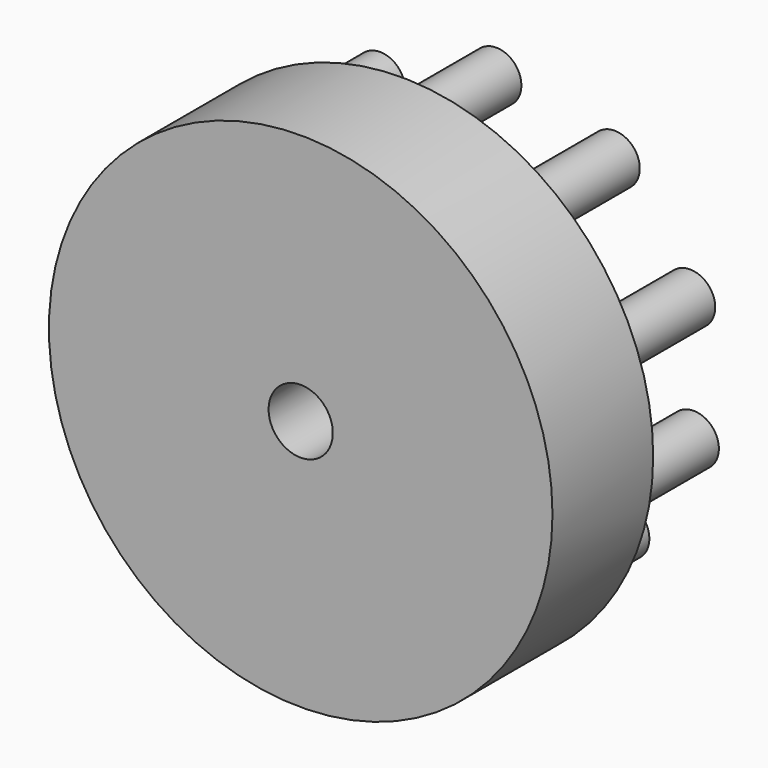
from build123d import *

# Parameters (mm, degrees)
F0_R     = 25.4
F1_DEPTH = 12.7
F2_R     = 2.54
F3_DEPTH = 12.7
F4_R     = 3.2385
F5_DEPTH = 12.7


with BuildPart() as f1:
    # F0 (on Front) → F1 (new body)
    with BuildSketch(Plane.XZ):
        Circle(F0_R)
    extrude(amount=F1_DEPTH)

    # F2 (on face) → F3 (join)
    with BuildSketch(Plane(origin=(0, 0, 0), x_dir=(-1, 0, 0), z_dir=(0, 1, 0))):
        with Locations((12.313798, 15.931344)):
            Circle(F2_R)
        with Locations((0.597863, 20.126597)):
            Circle(F2_R)
        with Locations((-11.346435, 16.634174)):
            Circle(F2_R)
        with Locations((-18.956781, 6.788062)):
            Circle(F2_R)
        with Locations((-19.326281, -5.650859)):
            Circle(F2_R)
        with Locations((-12.313798, -15.931344)):
            Circle(F2_R)
        with Locations((-0.597863, -20.126597)):
            Circle(F2_R)
        with Locations((11.346435, -16.634174)):
            Circle(F2_R)
        with Locations((18.956781, -6.788062)):
            Circle(F2_R)
        with Locations((19.326281, 5.650859)):
            Circle(F2_R)
    extrude(amount=F3_DEPTH)

    # F4 (on face) → F5 (cut)
    with BuildSketch(Plane(origin=(0, 0, 0), x_dir=(-1, 0, 0), z_dir=(0, 1, 0))):
        Circle(F4_R)
    extrude(amount=-F5_DEPTH, mode=Mode.SUBTRACT)


solid = f1.part
